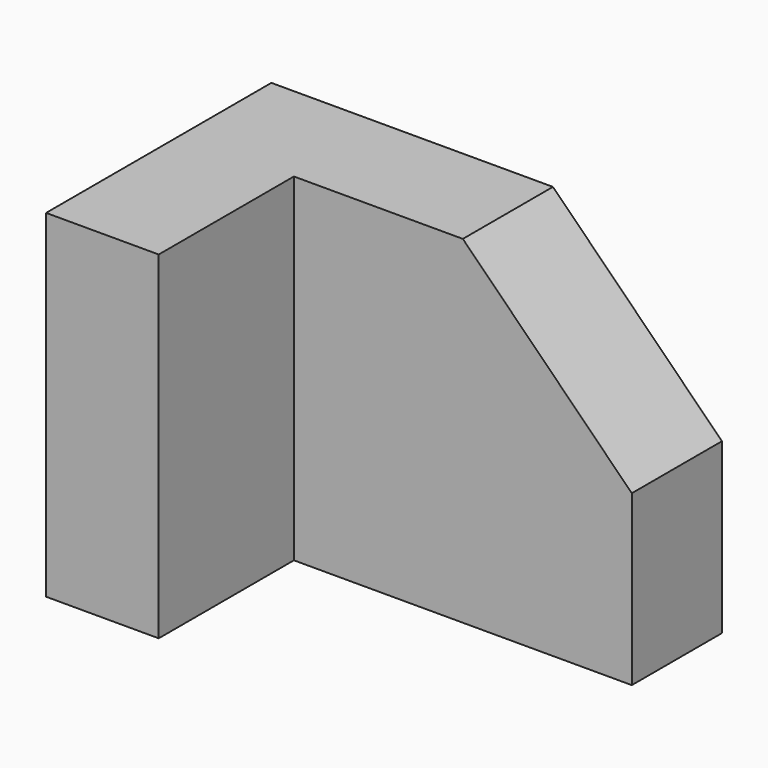
from build123d import *

# Parameters (mm, degrees)
F0_W     = 80
F0_H     = 60
F1_DEPTH = 20
F2_W     = 20
F2_H     = 60
F3_DEPTH = 30
F5_DEPTH = 20.001


with BuildPart() as f1:
    # F0 (on Front) → F1 (new body)
    with BuildSketch(Plane.XZ):
        Rectangle(F0_W, F0_H)
    extrude(amount=F1_DEPTH)

    # F2 (on face) → F3 (join)
    with BuildSketch(Plane.XZ.offset(20)):
        with Locations((-30, 0)):
            Rectangle(F2_W, F2_H)
    extrude(amount=F3_DEPTH)

    # F4 (on face) → F5 (cut, through all)
    with BuildSketch(Plane.XZ.offset(20)):
        Polygon((40, 30), (10, 30), (40, 0), align=None)
    extrude(amount=-F5_DEPTH, mode=Mode.SUBTRACT)


solid = f1.part
